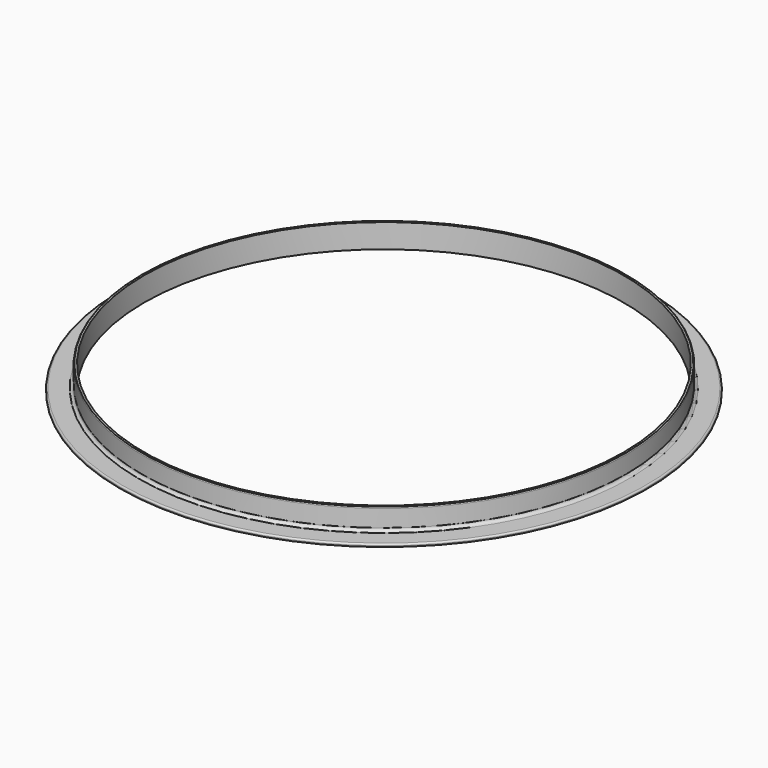
from build123d import *

# Parameters (mm, degrees)
F2_W     = 1953.7661696216
F2_H     = 27.2181874708
F3_DEPTH = 900


with BuildPart() as f1:
    # F0 (on Right) → F1 (revolve)
    with BuildSketch(Plane.YZ):
        with BuildLine():
            Line((4.5, 90), (0, 90))
            Line((0, 90), (0, 0))
            Line((0, 0), (90, 0))
            Line((90, 0), (90, 4.5))
            ThreePointArc((90, 4.5), (88.3890872965, 8.3890872965), (84.5, 10))
            Line((84.5, 10), (21, 10))
            ThreePointArc((21, 10), (13.2218254069, 13.2218254069), (10, 21))
            Line((10, 21), (10, 84.5))
            ThreePointArc((10, 84.5), (8.3890872965, 88.3890872965), (4.5, 90))
        make_face()
    revolve(axis=Axis((0, -890, 43.0200174451), (0, 0, 1)))

    # F2 (on Right) → F3 (cut, symmetric)
    with BuildSketch(Plane.YZ):
        with Locations((-897.6354291663, 102.6090937354)):
            Rectangle(F2_W, F2_H)
    extrude(amount=F3_DEPTH, both=True, mode=Mode.SUBTRACT)


solid = f1.part
